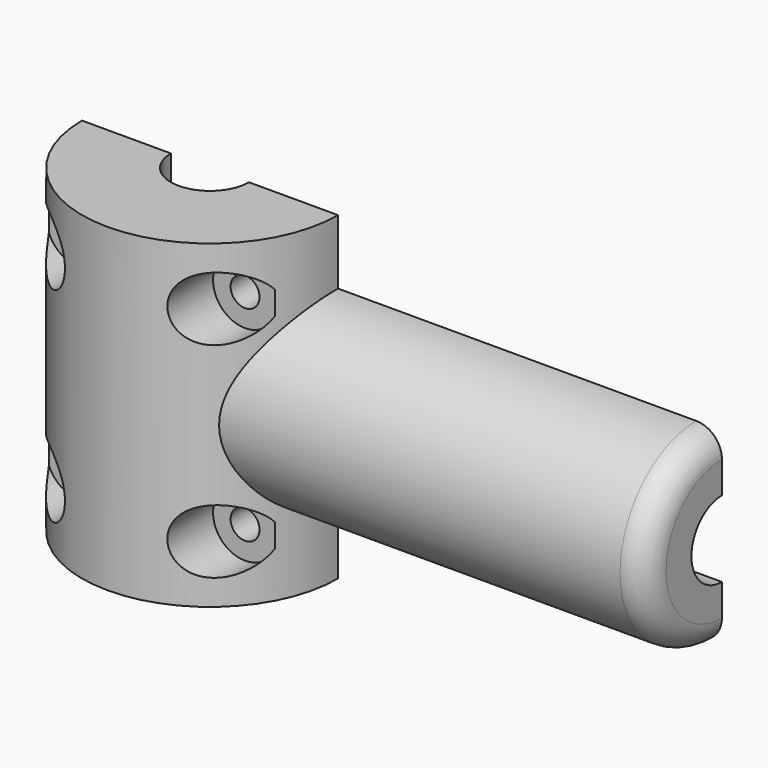
from build123d import *

# Parameters (mm, degrees)
F0_R      = 10
F0_R_2    = 3.05
F1_DEPTH  = 12.5
F3_R      = 7.45
F4_DEPTH  = 33.3293554535
F5_R      = 2.975
F6_DEPTH  = 39.3287836491
F7_R      = 2
F8_R      = 1.1303
F9_DEPTH  = 12.5
F11_R     = 2.5
F12_DEPTH = 25
F13_W     = 67.0658163726
F13_H     = 16.5084768087
F14_DEPTH = 12.5


with BuildPart() as f1:
    # F0 (on Top) → F1 (new body, symmetric)
    with BuildSketch(Plane.XY):
        Circle(F0_R)
        Circle(F0_R_2, mode=Mode.SUBTRACT)
    extrude(amount=F1_DEPTH, both=True)

    # F3 (on offset) → F4 (join, through all)
    with BuildSketch(Plane.YZ.offset(40)):
        Circle(F3_R)
    extrude(amount=-F4_DEPTH)

    # F5 (on face) → F6 (cut, through all)
    with BuildSketch(Plane.YZ.offset(40)):
        Circle(F5_R)
    extrude(amount=-F6_DEPTH, mode=Mode.SUBTRACT)

    # F7
    f7_edges = [f1.edges().sort_by_distance(p)[0] for p in [
        (40, -7.45, 0),
    ]]
    fillet(f7_edges, radius=F7_R)

    # F8 (on Front) → F9 (cut, symmetric)
    with BuildSketch(Plane.XZ):
        with Locations((-6.5, -8)):
            Circle(F8_R)
        with Locations((6.5, -8)):
            Circle(F8_R)
        with Locations((-6.5, 8)):
            Circle(F8_R)
        with Locations((6.5, 8)):
            Circle(F8_R)
    extrude(amount=F9_DEPTH, both=True, mode=Mode.SUBTRACT)

    # F11 (on offset) → F12 (cut)
    with BuildSketch(Plane.XZ.offset(4.7)):
        with Locations((-6.5, 8)):
            Circle(F11_R)
        with Locations((6.5, 8)):
            Circle(F11_R)
        with Locations((-6.5, -8)):
            Circle(F11_R)
        with Locations((6.5, -8)):
            Circle(F11_R)
    extrude(amount=F12_DEPTH, mode=Mode.SUBTRACT)

    # F13 (on Top) → F14 (cut, symmetric)
    with BuildSketch(Plane.XY):
        with Locations((14.590991661, 8.2542384043)):
            Rectangle(F13_W, F13_H)
    extrude(amount=F14_DEPTH, both=True, mode=Mode.SUBTRACT)


solid = f1.part
